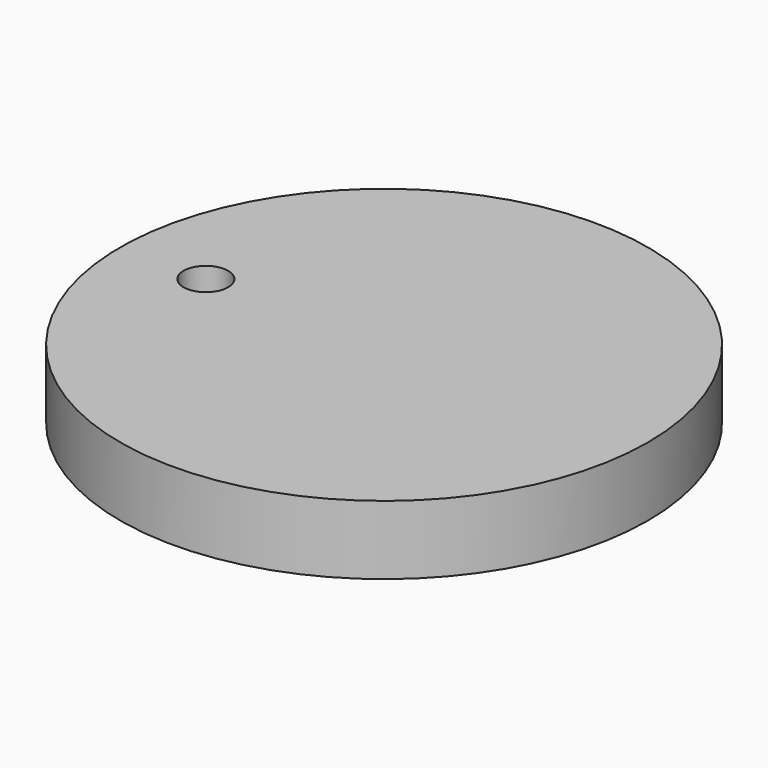
from build123d import *

# Parameters (mm, degrees)
F0_R     = 97.354706
F0_R_2   = 8.226166
F1_DEPTH = 25.4


with BuildPart() as f1:
    # F0 (on Top) → F1 (new body)
    with BuildSketch(Plane.XY):
        with Locations((-115.498722, -14.741208)):
            Circle(F0_R)
        with Locations((-181.232989, -14.741208)):
            Circle(F0_R_2, mode=Mode.SUBTRACT)
    extrude(amount=-F1_DEPTH)


solid = f1.part
